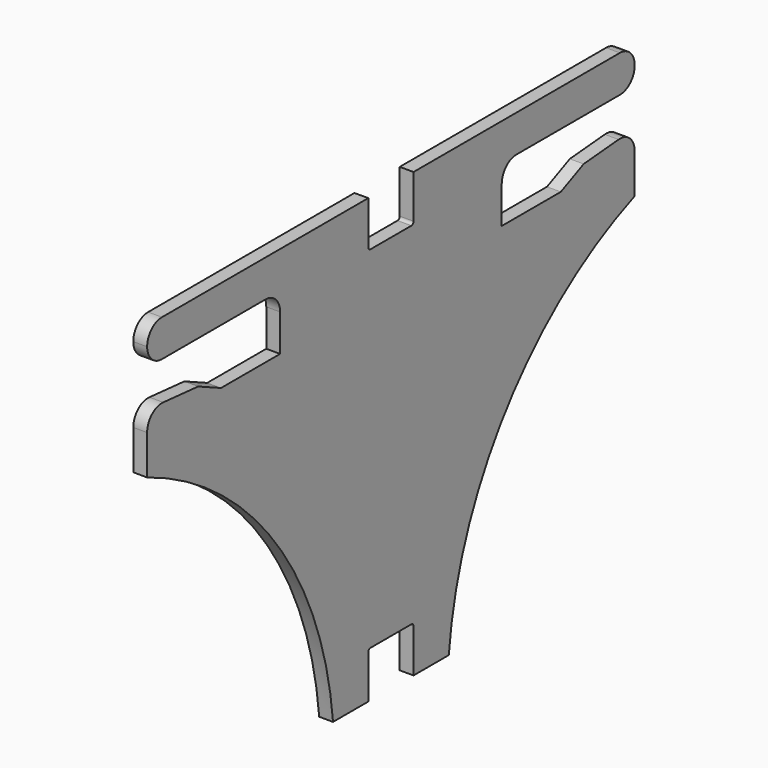
from build123d import *

# Parameters (mm, degrees)
F1_DEPTH = 9.525
F2_W     = 12.7
F2_H     = 241.3
F3_DEPTH = 25.4
F6_DEPTH = 25.4


with BuildPart() as f1:
    # F0 (on Right) → F1 (new body)
    with BuildSketch(Plane.YZ):
        with BuildLine():
            Line((29.845, -31.75), (0, -31.75))
            Line((0, -31.75), (0, -273.05))
            Line((0, -273.05), (29.845, -273.05))
            ThreePointArc((29.845, -273.05), (31.192038, -273.607962), (31.75, -274.955))
            Line((31.75, -274.955), (31.75, -304.8))
            Line((31.75, -304.8), (62.456746, -304.8))
            ThreePointArc((62.456746, -304.8), (112.216851, -175.710639), (222.25, -91.848627))
            Line((222.25, -91.848627), (222.25, -64.650771))
            ThreePointArc((222.25, -64.650771), (218.132973, -55.290078), (208.45117, -51.998397))
            Line((208.45117, -51.998397), (178.380117, -54.61))
            Line((178.380117, -54.61), (158.75, -63.5))
            Line((158.75, -63.5), (107.95, -63.5))
            Line((107.95, -63.5), (107.95, -38.1))
            ThreePointArc((107.95, -38.1), (111.669744, -29.119744), (120.65, -25.4))
            Line((120.65, -25.4), (209.55, -25.4))
            ThreePointArc((209.55, -25.4), (218.530256, -21.680256), (222.25, -12.7))
            ThreePointArc((222.25, -12.7), (218.530256, -3.719744), (209.55, 0))
            Line((209.55, 0), (31.75, 0))
            Line((31.75, 0), (31.75, -29.845))
            ThreePointArc((31.75, -29.845), (31.192038, -31.192038), (29.845, -31.75))
        make_face()
    extrude(amount=F1_DEPTH)

    # F2 (on face) → F3 (cut)
    with BuildSketch(Plane.YZ.offset(9.525)):
        with Locations((6.35, -152.4)):
            Rectangle(F2_W, F2_H)
    extrude(amount=-F3_DEPTH, mode=Mode.SUBTRACT)

    # F4: F1 across face


with BuildPart() as f1_1:
    add(f1.part)
    add(f1.part.mirror(Plane(origin=(4.7625, 12.7, -152.4), x_dir=(1, 0, 0), z_dir=(0, -1, 0))))

    # F5 (on face) → F6 (cut)
    with BuildSketch(Plane.YZ.offset(9.525)):
        with BuildLine():
            Line((32.146875, 0), (-6.746875, 0))
            Line((-6.746875, 0), (-6.746875, -29.845))
            ThreePointArc((-6.746875, -29.845), (-6.188913, -31.192038), (-4.841875, -31.75))
            Line((-4.841875, -31.75), (30.241875, -31.75))
            ThreePointArc((30.241875, -31.75), (31.588913, -31.192038), (32.146875, -29.845))
            Line((32.146875, -29.845), (32.146875, 0))
        make_face()
        with BuildLine():
            Line((-6.746875, -274.955), (-6.746875, -304.8))
            Line((-6.746875, -304.8), (32.146875, -304.8))
            Line((32.146875, -304.8), (32.146875, -274.955))
            ThreePointArc((32.146875, -274.955), (31.588913, -273.607962), (30.241875, -273.05))
            Line((30.241875, -273.05), (-4.841875, -273.05))
            ThreePointArc((-4.841875, -273.05), (-6.188913, -273.607962), (-6.746875, -274.955))
        make_face()
    extrude(amount=-F6_DEPTH, mode=Mode.SUBTRACT)


solid = f1_1.part
